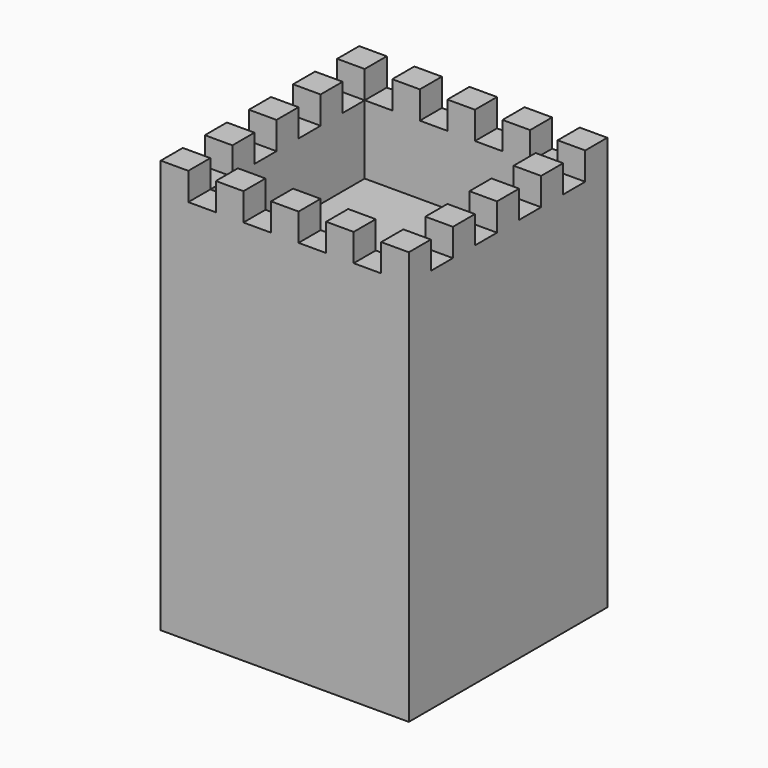
from build123d import *

# Parameters (mm, degrees)
BOX003_W         = 10
BOX003_H         = 110
BOX003_DEPTH     = 10
ARRAY001_X_COUNT = 4
ARRAY001_X_PITCH = 20
BOX002_W         = 110
BOX002_H         = 10
BOX002_DEPTH     = 10
ARRAY_X_COUNT    = 4
ARRAY_X_PITCH    = 20
BOX001_W         = 70
BOX001_H         = 70
BOX001_DEPTH     = 70
BOX_W            = 90
BOX_H            = 90
BOX_DEPTH        = 150


with BuildPart() as fusion001:
    # Box003 → Box003 (new body)
    with BuildSketch(Plane(origin=(10, -10, 140), x_dir=(1, 0, 0), z_dir=(0, 0, 1))):
        with Locations((5, 55)):
            Rectangle(BOX003_W, BOX003_H)
    extrude(amount=BOX003_DEPTH)

    # Array001 X: Fusion001 ×4


with BuildPart() as fusion001_1:
    add(fusion001.part)
    with Locations(*[(i * ARRAY001_X_PITCH, 0, 0) for i in range(1, ARRAY001_X_COUNT)]):
        add(fusion001.part)


with BuildPart() as fusion002:
    # Box002 → Box002 (new body)
    with BuildSketch(Plane(origin=(-10, 10, 140), x_dir=(1, 0, 0), z_dir=(0, 0, 1))):
        with Locations((55, 5)):
            Rectangle(BOX002_W, BOX002_H)
    extrude(amount=BOX002_DEPTH)

    # Array X: Fusion002 ×4


with BuildPart() as fusion002_1:
    add(fusion002.part)
    with Locations(*[(0, i * ARRAY_X_PITCH, 0) for i in range(1, ARRAY_X_COUNT)]):
        add(fusion002.part)

    # Fusion002: union Fusion001
    add(fusion001_1.part)


with BuildPart() as cube001:
    # Box001 → Box001 (new body)
    with BuildSketch(Plane(origin=(10, 10, 115), x_dir=(1, 0, 0), z_dir=(0, 0, 1))):
        with Locations((35, 35)):
            Rectangle(BOX001_W, BOX001_H)
    extrude(amount=BOX001_DEPTH)


with BuildPart() as torre:
    # Box → Box (new body)
    with BuildSketch(Plane.XY):
        with Locations((45, 45)):
            Rectangle(BOX_W, BOX_H)
    extrude(amount=BOX_DEPTH)

    # Cut: cut Cube001
    add(cube001.part, mode=Mode.SUBTRACT)

    # Cut001: cut Fusion002
    add(fusion002_1.part, mode=Mode.SUBTRACT)


solid = torre.part
